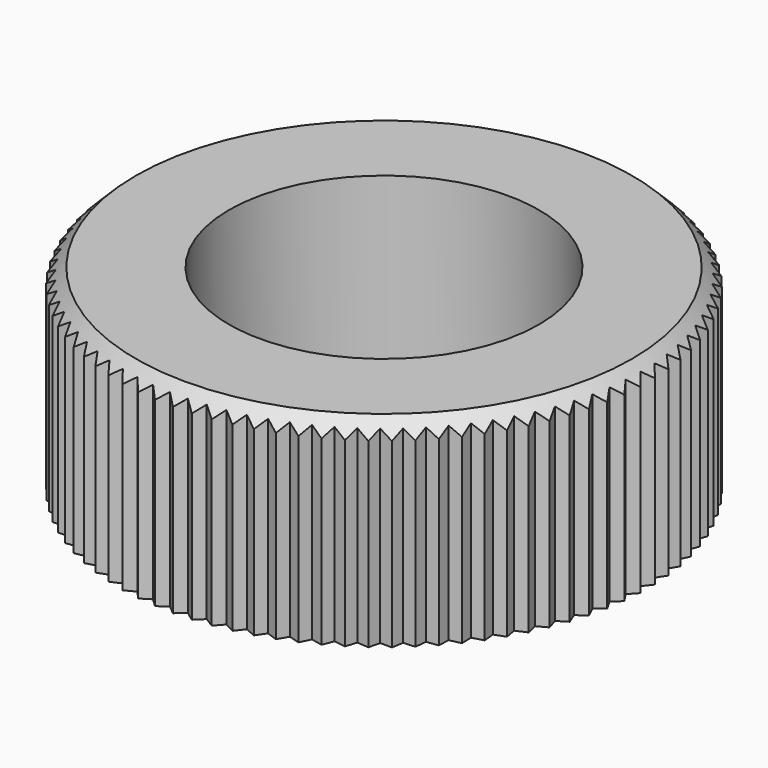
from build123d import *

# Parameters (mm, degrees)
F0_W     = 2.4765
F0_H     = 4.445
F2_SIZE  = 0.381
F3_R     = 6.35
F4_DEPTH = 4.446


with BuildPart() as f1:
    # F0 (on Front) → F1 (revolve)
    with BuildSketch(Plane.XZ):
        with Locations((4.73075, 2.2225)):
            Rectangle(F0_W, F0_H)
    revolve(axis=Axis((0, 0, 5.406004), (0, 0, 1)))

    # F2
    f2_edges = [f1.edges().sort_by_distance(p)[0] for p in [
        (-5.969, 0, 4.445),
    ]]
    chamfer(f2_edges, length=F2_SIZE)

    # F3 (on face) → F4 (cut, through all)
    with BuildSketch(Plane(origin=(0, 0, 0), x_dir=(1, 0, 0), z_dir=(0, 0, -1))):
        Circle(F3_R)
        Polygon((-0.201667, 5.77498), (0, 5.9436), (0.201667, 5.77498), (0.414605, 5.929122), (0.604018, 5.746845), (0.827189, 5.885757), (1.003426, 5.690712), (1.235744, 5.813718), (1.397946, 5.606854), (1.638278, 5.713355), (1.785655, 5.49568), (2.032831, 5.585157), (2.164664, 5.357732), (2.41748, 5.429749), (2.533128, 5.193681), (2.790351, 5.247887), (2.88925, 5.004328), (3.149628, 5.040459), (3.231296, 4.790594), (3.49356, 4.808473), (3.5576, 4.55352), (3.820472, 4.553062), (3.866571, 4.294262), (4.128771, 4.275468), (4.156705, 4.014083), (4.416956, 3.977045), (4.426588, 3.714348), (4.683621, 3.659246), (4.674905, 3.396517), (4.927468, 3.323619), (4.900446, 3.062138), (5.147309, 2.9718), (5.102113, 2.712841), (5.342072, 2.605503), (5.278922, 2.350328), (5.51081, 2.226512), (5.430014, 1.976363), (5.6527, 1.836673), (5.554651, 1.59277), (5.76705, 1.437887), (5.652226, 1.201418), (5.853303, 1.032095), (5.722264, 0.804212), (5.91104, 0.621275), (5.764424, 0.403088), (5.939979, 0.207429), (5.7785, 0), (5.939979, -0.207429), (5.764424, -0.403088), (5.91104, -0.621275), (5.722264, -0.804212), (5.853303, -1.032095), (5.652226, -1.201418), (5.76705, -1.437887), (5.554651, -1.59277), (5.6527, -1.836673), (5.430014, -1.976363), (5.51081, -2.226512), (5.278922, -2.350328), (5.342072, -2.605503), (5.102113, -2.712841), (5.147309, -2.9718), (4.900446, -3.062138), (4.927468, -3.323619), (4.674905, -3.396517), (4.683621, -3.659246), (4.426588, -3.714348), (4.416956, -3.977045), (4.156705, -4.014083), (4.128771, -4.275468), (3.866571, -4.294262), (3.820472, -4.553062), (3.5576, -4.55352), (3.49356, -4.808473), (3.231296, -4.790594), (3.149628, -5.040459), (2.88925, -5.004328), (2.790351, -5.247887), (2.533128, -5.193681), (2.41748, -5.429749), (2.164664, -5.357732), (2.032831, -5.585157), (1.785655, -5.49568), (1.638278, -5.713355), (1.397946, -5.606854), (1.235744, -5.813718), (1.003426, -5.690712), (0.827189, -5.885757), (0.604018, -5.746845), (0.414605, -5.929122), (0.201667, -5.77498), (0, -5.9436), (-0.201667, -5.77498), (-0.414605, -5.929122), (-0.604018, -5.746845), (-0.827189, -5.885757), (-1.003426, -5.690712), (-1.235744, -5.813718), (-1.397946, -5.606854), (-1.638278, -5.713355), (-1.785655, -5.49568), (-2.032831, -5.585157), (-2.164664, -5.357732), (-2.41748, -5.429749), (-2.533128, -5.193681), (-2.790351, -5.247887), (-2.88925, -5.004328), (-3.149628, -5.040459), (-3.231296, -4.790594), (-3.49356, -4.808473), (-3.5576, -4.55352), (-3.820472, -4.553062), (-3.866571, -4.294262), (-4.128771, -4.275468), (-4.156705, -4.014083), (-4.416956, -3.977045), (-4.426588, -3.714348), (-4.683621, -3.659246), (-4.674905, -3.396517), (-4.927468, -3.323619), (-4.900446, -3.062138), (-5.147309, -2.9718), (-5.102113, -2.712841), (-5.342072, -2.605503), (-5.278922, -2.350328), (-5.51081, -2.226512), (-5.430014, -1.976363), (-5.6527, -1.836673), (-5.554651, -1.59277), (-5.76705, -1.437887), (-5.652226, -1.201418), (-5.853303, -1.032095), (-5.722264, -0.804212), (-5.91104, -0.621275), (-5.764424, -0.403088), (-5.939979, -0.207429), (-5.7785, 0), (-5.939979, 0.207429), (-5.764424, 0.403088), (-5.91104, 0.621275), (-5.722264, 0.804212), (-5.853303, 1.032095), (-5.652226, 1.201418), (-5.76705, 1.437887), (-5.554651, 1.59277), (-5.6527, 1.836673), (-5.430014, 1.976363), (-5.51081, 2.226512), (-5.278922, 2.350328), (-5.342072, 2.605503), (-5.102113, 2.712841), (-5.147309, 2.9718), (-4.900446, 3.062138), (-4.927468, 3.323619), (-4.674905, 3.396517), (-4.683621, 3.659246), (-4.426588, 3.714348), (-4.416956, 3.977045), (-4.156705, 4.014083), (-4.128771, 4.275468), (-3.866571, 4.294262), (-3.820472, 4.553062), (-3.5576, 4.55352), (-3.49356, 4.808473), (-3.231296, 4.790594), (-3.149628, 5.040459), (-2.88925, 5.004328), (-2.790351, 5.247887), (-2.533128, 5.193681), (-2.41748, 5.429749), (-2.164664, 5.357732), (-2.032831, 5.585157), (-1.785655, 5.49568), (-1.638278, 5.713355), (-1.397946, 5.606854), (-1.235744, 5.813718), (-1.003426, 5.690712), (-0.827189, 5.885757), (-0.604018, 5.746845), (-0.414605, 5.929122), align=None, mode=Mode.SUBTRACT)
    extrude(amount=-F4_DEPTH, mode=Mode.SUBTRACT)


solid = f1.part
